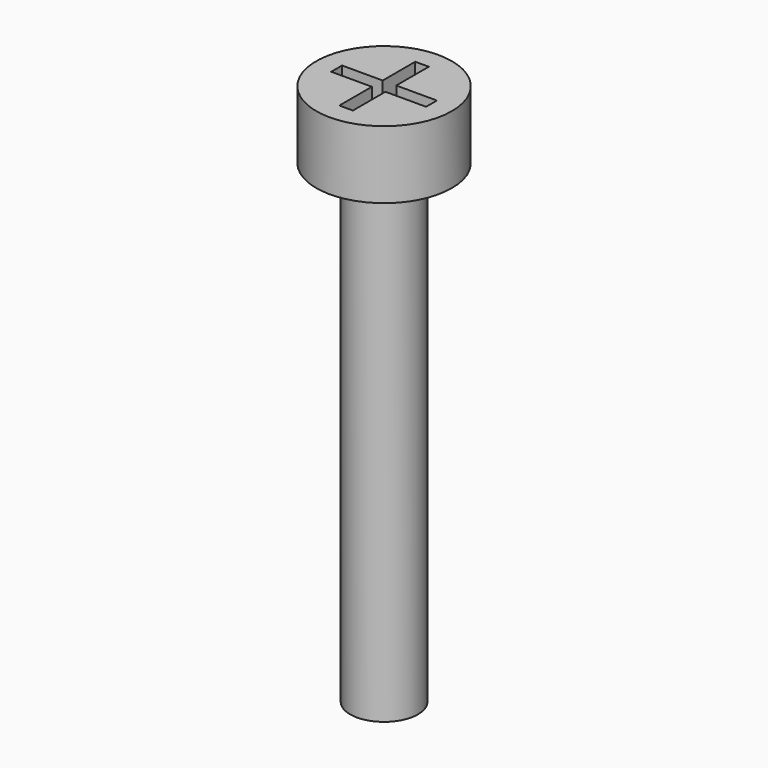
from build123d import *

# Parameters (mm, degrees)
POCKET_DEPTH    = 3
POCKET_FACE18_R = 2.5
POCKET001_DEPTH = 10


with BuildPart() as part:
    # Sketch → Revolution (revolve)
    with BuildSketch(Plane.XZ):
        Polygon((0, 50), (5, 50), (5, 45), (2.5, 45), (2.5, 0), (0, 0), align=None)
    revolve(axis=Axis((0, 0, 0), (0, 0, 1)))

    # Sketch001 (on Face1 of Revolution) → Pocket (cut)
    with BuildSketch(Plane(origin=(0, 0, 50), x_dir=(-1, 0, 0), z_dir=(0, 0, 1))):
        Polygon((-3.5, 0.5), (-0.5, 0.5), (-0.5, 3.5), (0.5, 3.5), (0.5, 0.5), (3.5, 0.5), (3.5, -0.5), (0.5, -0.5), (0.5, -3.5), (-0.5, -3.5), (-0.5, -0.5), (-3.5, -0.5), align=None)
    extrude(amount=-POCKET_DEPTH, mode=Mode.SUBTRACT)

    # Pocket Face18 → Pocket001 (cut)
    with BuildSketch(Plane(origin=(0, 0, 0), x_dir=(0, -1, 0), z_dir=(0, 0, -1))):
        Circle(POCKET_FACE18_R)
    extrude(amount=-POCKET001_DEPTH, mode=Mode.SUBTRACT)


solid = part.part
